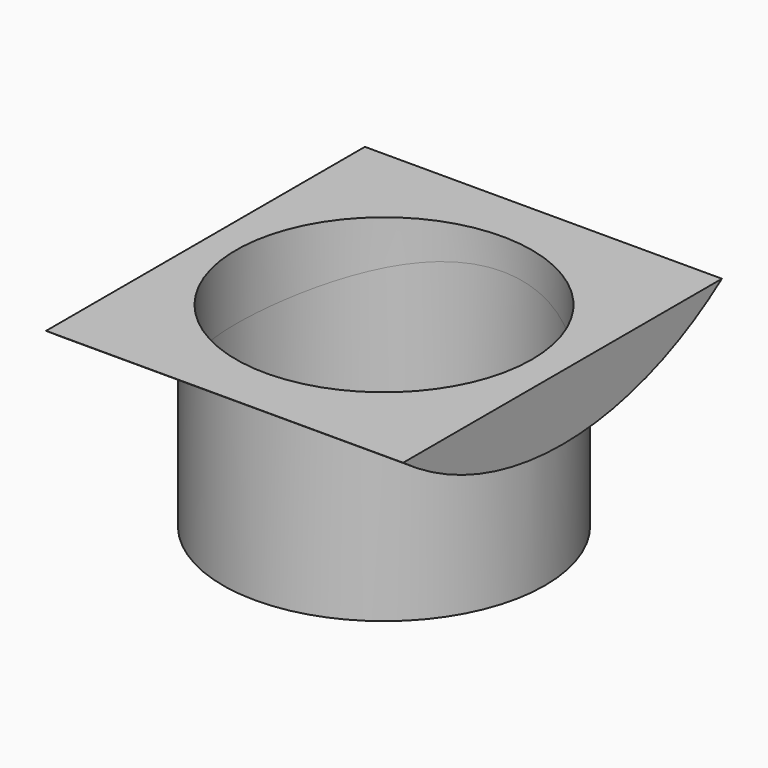
from build123d import *

# Parameters (mm, degrees)
F0_R          = 31.496
F0_R_2        = 28.956
F1_DEPTH      = 25.4
F1_DEPTH_BACK = 12.7
F3_DEPTH      = 34.925
F3_DEPTH_BACK = 34.925
F4_DEPTH      = 25.4


with BuildPart() as f1:
    # F0 (on Top) → F1 (new body, two sides)
    with BuildSketch(Plane.XY) as f1_sk:
        Circle(F0_R)
        Circle(F0_R_2, mode=Mode.SUBTRACT)
    extrude(amount=-F1_DEPTH)
    extrude(f1_sk.sketch, amount=F1_DEPTH_BACK)

    # F2 (on Right) → F3 (join, two sides)
    with BuildSketch(Plane.YZ) as f3_sk:
        with BuildLine():
            ThreePointArc((-38.9788635032, 12.7), (-20.4978157373, 3.2550660049), (0, 0))
            ThreePointArc((0, 0), (20.4978157373, 3.2550660049), (38.9788635032, 12.7))
            Line((38.9788635032, 12.7), (-38.9788635032, 12.7))
        make_face()
    extrude(amount=F3_DEPTH)
    extrude(f3_sk.sketch, amount=-F3_DEPTH_BACK)

    # F0 (on Top) → F4 (cut)
    with BuildSketch(Plane.XY):
        Circle(F0_R_2)
    extrude(amount=F4_DEPTH, mode=Mode.SUBTRACT)


solid = f1.part
